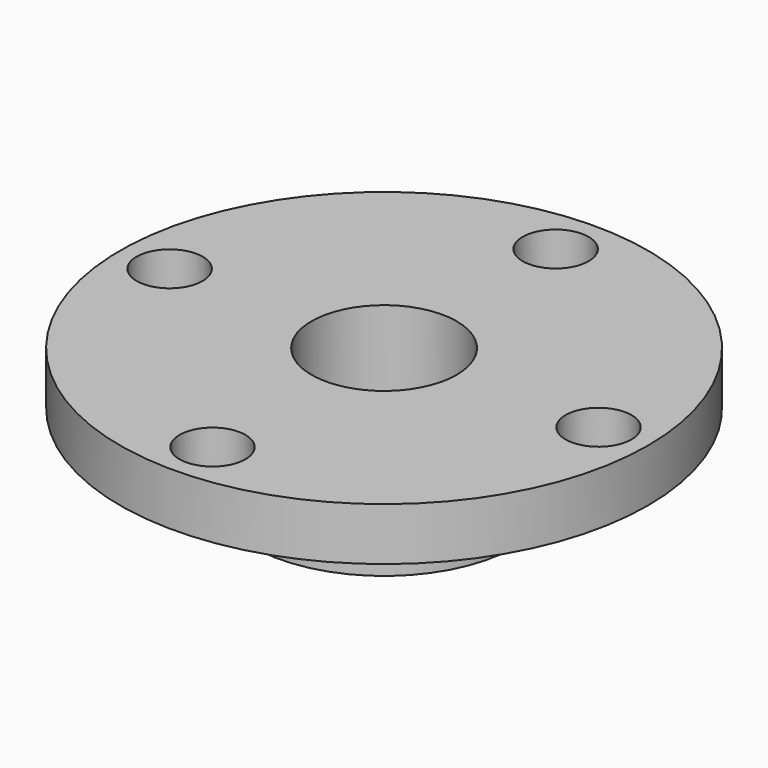
from build123d import *

# Parameters (mm, degrees)
F2_R     = 3
F3_DEPTH = 20.001
F4_R     = 5
F5_DEPTH = 6


with BuildPart() as f1:
    # F0 (on Front) → F1 (revolve)
    with BuildSketch(Plane.XZ):
        Polygon((11, 20), (11, 0), (20, 0), (20, 12), (40, 12), (40, 20), align=None)
    revolve(axis=Axis((0, 0, 10), (0, 0, 1)))

    # F2 (on face) → F3 (cut, through all)
    with BuildSketch(Plane.XY.offset(20)):
        with Locations((0, 32.5)):
            Circle(F2_R)
        with Locations((-32.5, 0)):
            Circle(F2_R)
        with Locations((0, -32.5)):
            Circle(F2_R)
        with Locations((32.5, 0)):
            Circle(F2_R)
    extrude(amount=-F3_DEPTH, mode=Mode.SUBTRACT)

    # F4 (on face) → F5 (cut)
    with BuildSketch(Plane.XY.offset(20)):
        with Locations((0, 32.5)):
            Circle(F4_R)
        with Locations((-32.5, 0)):
            Circle(F4_R)
        with Locations((0, -32.5)):
            Circle(F4_R)
        with Locations((32.5, 0)):
            Circle(F4_R)
    extrude(amount=-F5_DEPTH, mode=Mode.SUBTRACT)


solid = f1.part
